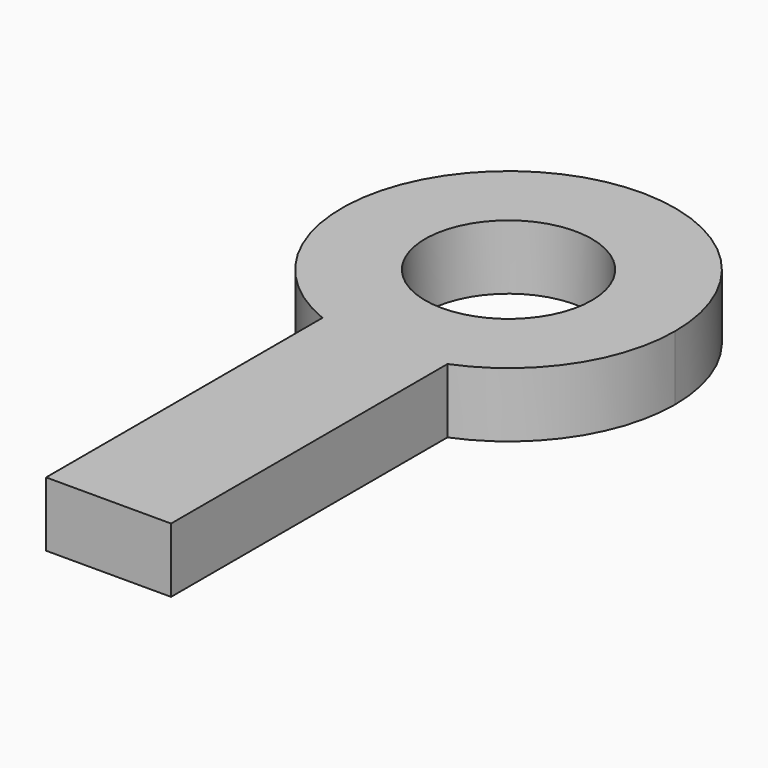
from build123d import *

# Parameters (mm, degrees)
F1_DEPTH = 1.55


with BuildPart() as f1:
    # F0 (on Top) → F1 (new body)
    with BuildSketch(Plane.XY):
        with BuildLine():
            Line((-1.5, 24.0460701659), (0, 24.0460701659))
            Line((0, 24.0460701659), (1.5, 24.0460701659))
            Line((1.5, 24.0460701659), (1.5, 22.3379709224))
            ThreePointArc((1.5, 22.3379709224), (3.3166247904, 23.8100021884), (4, 26.0460701659))
            ThreePointArc((4, 26.0460701659), (-2.2360679775, 29.3626949563), (-1.5, 22.3379709224))
            Line((-1.5, 22.3379709224), (-1.5, 24.0460701659))
        make_face()
        with BuildLine():
            ThreePointArc((0, 24.0460701659), (-1.4142135624, 27.4602837283), (2, 26.0460701659))
            ThreePointArc((2, 26.0460701659), (1.4142135624, 24.6318566036), (0, 24.0460701659))
        make_face(mode=Mode.SUBTRACT)
        with BuildLine():
            Line((1.5, 24.0460701659), (0, 24.0460701659))
            Line((0, 24.0460701659), (-1.5, 24.0460701659))
            Line((-1.5, 24.0460701659), (-1.5, 22.3379709224))
            ThreePointArc((-1.5, 22.3379709224), (0, 22.0460701659), (1.5, 22.3379709224))
            Line((1.5, 22.3379709224), (1.5, 24.0460701659))
        make_face()
        with BuildLine():
            ThreePointArc((1.5, 22.3379709224), (0, 22.0460701659), (-1.5, 22.3379709224))
            Line((-1.5, 22.3379709224), (-1.5, 14.0460701659))
            Line((-1.5, 14.0460701659), (1.5, 14.0460701659))
            Line((1.5, 14.0460701659), (1.5, 22.3379709224))
        make_face()
    extrude(amount=F1_DEPTH)


solid = f1.part
